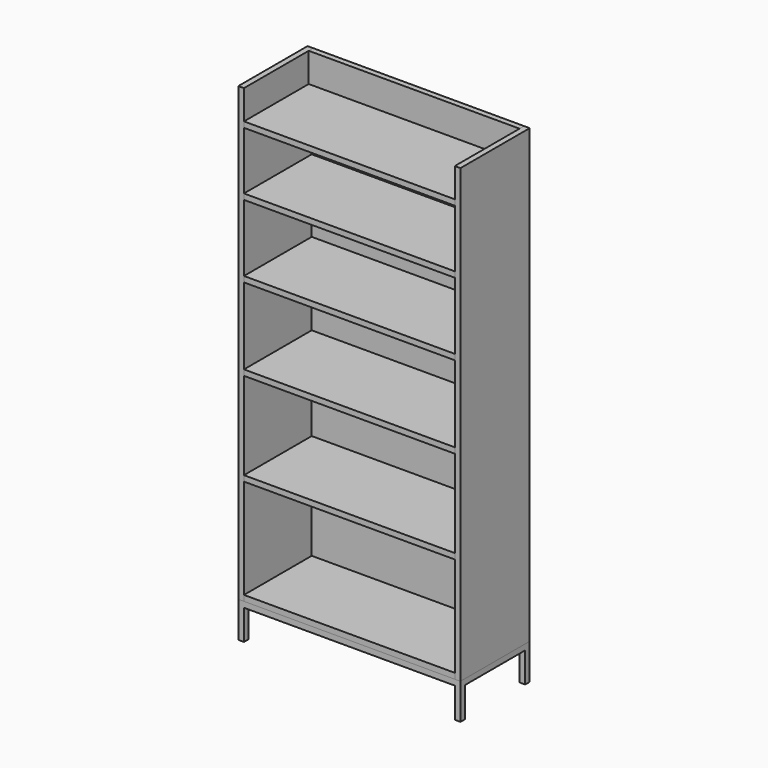
from build123d import *

# Parameters (mm, degrees)
F1_DEPTH  = 292.1
F2_W      = 19.05
F2_H      = 1524
F3_DEPTH  = 292.1
F4_W      = 19.05
F4_H      = 98.713074
F5_DEPTH  = 711.2
F6_W      = 711.2
F6_H      = 19.05
F7_DEPTH  = 19.05
F8_W      = 19.05
F8_H      = 19.05
F9_DEPTH  = 101.6
F10_W     = 711.2
F10_H     = 1387.186926
F11_DEPTH = 6.35


with BuildPart() as f1:
    # F0 (on Front) → F1 (new body)
    with BuildSketch(Plane.XZ):
        Polygon((0, -762), (-355.6, -762), (-355.6, -781.05), (355.6, -781.05), (355.6, -762), align=None)
        Polygon((164.060975, 644.236926), (161.838475, 625.186926), (355.6, 625.186926), (355.6, 644.236926), align=None)
        Polygon((139.098839, 430.275765), (136.876339, 411.225765), (355.6, 411.225765), (355.6, 430.275765), align=None)
        Polygon((-355.6, 430.275765), (-355.6, 411.225765), (136.876339, 411.225765), (139.098839, 430.275765), align=None)
        Polygon((110.504346, 185.180111), (108.281846, 166.130111), (355.6, 166.130111), (355.6, 185.180111), align=None)
        Polygon((-355.6, 185.180111), (-355.6, 166.130111), (108.281846, 166.130111), (110.504346, 185.180111), align=None)
        Polygon((78.133222, -92.286667), (75.910722, -111.336667), (355.6, -111.336667), (355.6, -92.286667), align=None)
        Polygon((-355.6, -92.286667), (-355.6, -111.336667), (75.910722, -111.336667), (78.133222, -92.286667), align=None)
        Polygon((41.486667, -406.4), (39.264167, -425.45), (355.6, -425.45), (355.6, -406.4), align=None)
        Polygon((-355.6, -406.4), (-355.6, -425.45), (39.264167, -425.45), (41.486667, -406.4), align=None)
        Polygon((-355.6, 644.236926), (-355.6, 625.186926), (161.838475, 625.186926), (164.060975, 644.236926), align=None)
    extrude(amount=F1_DEPTH)


with BuildPart() as f3:
    # F2 (on Front) → F3 (new body)
    with BuildSketch(Plane.XZ):
        with Locations((-365.125, -19.05)):
            Rectangle(F2_W, F2_H)
        with Locations((365.125, -19.05)):
            Rectangle(F2_W, F2_H)
    extrude(amount=F3_DEPTH)


with BuildPart() as f5:
    # F4 (on face) → F5 (new body)
    with BuildSketch(Plane.YZ.offset(-355.6)):
        with Locations((-9.525, 693.593463)):
            Rectangle(F4_W, F4_H)
    extrude(amount=F5_DEPTH)


with BuildPart() as f7:
    # F6 (on face) → F7 (new body)
    with BuildSketch(Plane(origin=(0, 0, -781.05), x_dir=(1, 0, 0), z_dir=(0, 0, -1))):
        with Locations((0, 282.575)):
            Rectangle(F6_W, F6_H)
        Polygon((-355.6, 292.1), (-374.65, 292.1), (-374.65, 0), (-355.6, 0), (-355.6, 19.05), (-355.6, 273.05), align=None)
        with Locations((0, 9.525)):
            Rectangle(F6_W, F6_H)
        Polygon((374.65, 292.1), (355.6, 292.1), (355.6, 273.05), (355.6, 19.05), (355.6, 0), (374.65, 0), align=None)
    extrude(amount=F7_DEPTH)

    # F8 (on face) → F9 (join)
    with BuildSketch(Plane(origin=(0, 0, -800.1), x_dir=(1, 0, 0), z_dir=(0, 0, -1))):
        with Locations((-365.125, 282.575)):
            Rectangle(F8_W, F8_H)
        with Locations((-365.125, 9.525)):
            Rectangle(F8_W, F8_H)
        with Locations((365.125, 9.525)):
            Rectangle(F8_W, F8_H)
        with Locations((365.125, 282.575)):
            Rectangle(F8_W, F8_H)
    extrude(amount=F9_DEPTH)


with BuildPart() as f11:
    # F10 (on Front) → F11 (new body)
    with BuildSketch(Plane.XZ):
        with Locations((0, -68.406537)):
            Rectangle(F10_W, F10_H)
    extrude(amount=F11_DEPTH)


solid = Compound([f1.part, f3.part, f5.part, f7.part, f11.part])
